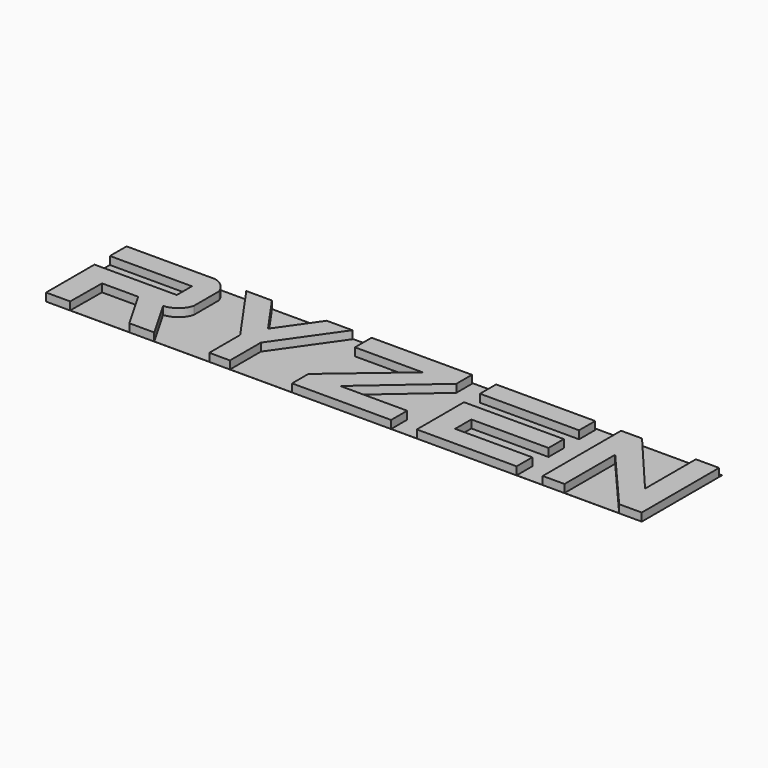
from build123d import *

# Parameters (mm, degrees)
F4_DEPTH = 1
F3_W     = 12.4513199553
F3_H     = 2.5294316001
F5_W     = 74.8214920866
F5_H     = 12.595169118
F6_DEPTH = 0.01
F7_SCALE = 0.5


with BuildPart() as f4:
    # F3 (on Top) → F4 (new body)
    with BuildSketch(Plane.XY):
        with BuildLine():
            Line((-32.5062275336, -7.6), (-29.4775575647, -7.6))
            Line((-29.4775575647, -7.6), (-29.4327614695, -2.6532297294))
            Line((-29.4327614695, -2.6532297294), (-24.8831383838, -2.6532297294))
            Line((-24.8831383838, -2.6532297294), (-22.0433248124, -7.6))
            Line((-22.0433248124, -7.6), (-18.9124204973, -7.6))
            Line((-18.9124204973, -7.6), (-21.7522340687, -2.6532297294))
            ThreePointArc((-21.7522340687, -2.6532297294), (-20.2830658587, -2.0796278446), (-19.4100086076, -0.7661418768))
            Line((-19.4100086076, -0.7661418768), (-19.4100086076, 3.1799558435))
            ThreePointArc((-19.4100086076, 3.1799558435), (-20.1465672733, 4.3424852653), (-21.3581765803, 4.995169118))
            Line((-21.3581765803, 4.995169118), (-32.4662169309, 4.995169118))
            Line((-32.4662169309, 4.995169118), (-32.4662169309, 2.3768300461))
            Line((-32.4662169309, 2.3768300461), (-22.156490013, 2.3768300461))
            Line((-22.156490013, 2.3768300461), (-22.156490013, 0))
            Line((-22.156490013, 0), (-32.5062275336, 0))
            Line((-32.5062275336, 0), (-32.5062275336, -7.6))
        make_face()
    extrude(amount=F4_DEPTH)



with BuildPart() as f4b:
    # F3 (on Top) → F4, piece 2 (new body)
    with BuildSketch(Plane.XY):
        Polygon((-14.1395051198, 4.9199829809), (-17.3628383068, 4.9199829809), (-11.9944959487, -2.7468044573), (-11.9944959487, -7.6), (-9.3944959487, -7.6), (-9.3944959487, -2.7468044573), (-4.0261535905, 4.9199829809), (-7.2494867775, 4.9199829809), (-10.6944959487, 0), align=None)
    extrude(amount=F4_DEPTH)


with BuildPart() as f4c:
    # F3 (on Top) → F4, piece 3 (new body)
    with BuildSketch(Plane.XY):
        Polygon((-1.5607364842, 4.8494239393), (-1.5607364842, 2.2384772427), (6.939469985, 2.2384772427), (-1.5920158667, -5.0374310329), (-1.5920158667, -7.6), (10.8593031573, -7.6), (10.8593031573, -5.0839300849), (2.4482466872, -5.0839300849), (11.0528468894, 2.399763919), (11.0528468894, 4.8494239393), align=None)
    extrude(amount=F4_DEPTH)


with BuildPart() as f4d:
    # F3 (on Top) → F4, piece 4 (new body)
    with BuildSketch(Plane.XY):
        with Locations((20.4074648017, 3.4706616363)):
            Rectangle(F3_W, F3_H)
    extrude(amount=F4_DEPTH)


with BuildPart() as f4e:
    # F3 (on Top) → F4, piece 5 (new body)
    with BuildSketch(Plane.XY):
        Polygon((14.0850310954, -7.6), (26.6331247794, -7.6), (26.6331247794, -5.1448669866), (16.9365629362, -5.1448669866), (16.9365629362, -2.5965400156), (26.6331247794, -2.5965400156), (26.6331247794, -0.1888843136), (14.0850310954, -0.1888843136), align=None)
    extrude(amount=F4_DEPTH)


with BuildPart() as f4f:
    # F3 (on Top) → F4, piece 6 (new body)
    with BuildSketch(Plane.XY):
        Polygon((29.911786692, -7.6), (32.6458275334, -7.6), (32.6458275334, 0.3624289589), (39.5166337506, -7.6), (42.3552751557, -7.6), (42.3552751557, 4.5534580069), (39.4317097559, 4.5534580069), (39.4317097559, -3.4268074825), (32.5400491226, 4.7125679496), (29.911786692, 4.7125679496), align=None)
    extrude(amount=F4_DEPTH)


with BuildPart() as f4_1:
    add(f4.part)

    add(f4b.part)  # F6 merges F4b

    add(f4c.part)  # F6 merges F4c

    add(f4d.part)  # F6 merges F4d

    add(f4e.part)  # F6 merges F4e

    add(f4f.part)  # F6 merges F4f
    # F5 (on Top) → F6 (join)
    with BuildSketch(Plane.XY):
        with Locations((4.9445291124, -1.302415441)):
            Rectangle(F5_W, F5_H)
    extrude(amount=-F6_DEPTH)


with BuildPart() as f4_2:
    # F7: moved
    add(f4_1.part.scale(F7_SCALE))


solid = f4_2.part
